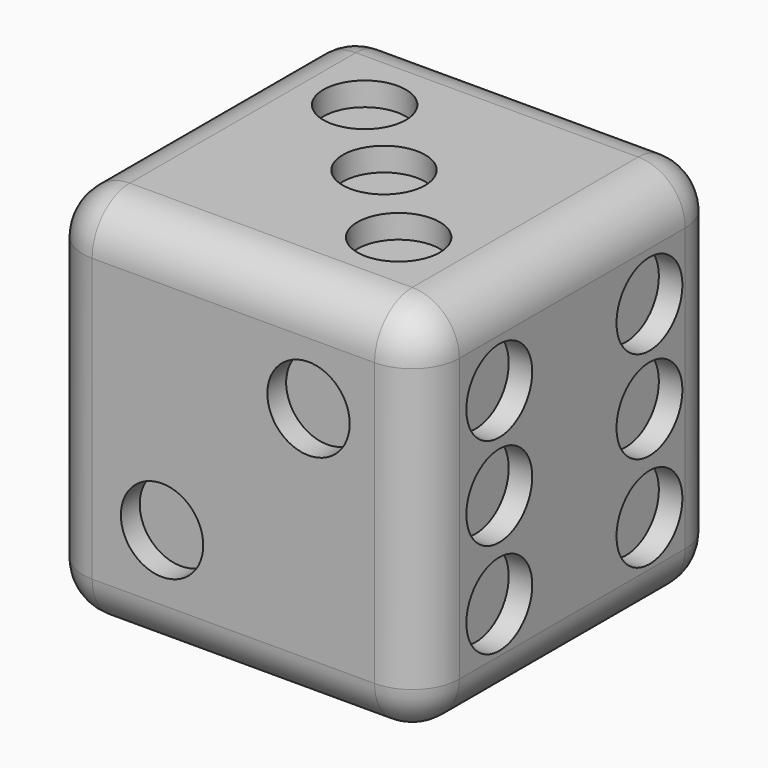
from build123d import *

# Parameters (mm, degrees)
F0_W      = 16
F0_H      = 16
F1_DEPTH  = 8
F2_R      = 2
F3_R      = 1.75
F4_DEPTH  = 1
F5_R      = 1.75
F6_DEPTH  = 1
F7_R      = 1.75
F8_DEPTH  = 1
F9_R      = 1.75
F10_DEPTH = 1
F11_R     = 1.75
F12_DEPTH = 1
F13_R     = 1.75
F14_DEPTH = 1


with BuildPart() as f1:
    # F0 (on Front) → F1 (new body, symmetric)
    with BuildSketch(Plane.XZ):
        Rectangle(F0_W, F0_H)
    extrude(amount=F1_DEPTH, both=True)

    # F2
    f2_edges = [f1.edges().sort_by_distance(p)[0] for p in [
        (0, -8, 8),
        (8, 0, 8),
        (8, -8, 0),
        (8, 8, 0),
        (8, 0, -8),
        (0, -8, -8),
        (0, 8, -8),
        (0, 8, 8),
        (-8, 8, 0),
        (-8, -8, 0),
        (-8, 0, -8),
        (-8, 0, 8),
    ]]
    fillet(f2_edges, radius=F2_R)

    # F3 (on face) → F4 (cut)
    with BuildSketch(Plane(origin=(-8, 0, 0), x_dir=(0, -1, 0), z_dir=(-1, 0, 0))):
        Circle(F3_R)
    extrude(amount=-F4_DEPTH, mode=Mode.SUBTRACT)

    # F5 (on face) → F6 (cut)
    with BuildSketch(Plane.XZ.offset(8)):
        with Locations((3.193169, 3.366647)):
            Circle(F5_R)
        with Locations((-3.031091, -3.203825)):
            Circle(F5_R)
    extrude(amount=-F6_DEPTH, mode=Mode.SUBTRACT)

    # F7 (on face) → F8 (cut)
    with BuildSketch(Plane.YZ.offset(8)):
        with Locations((-3.87646, 3.926625)):
            Circle(F7_R)
        with Locations((-3.87646, 0)):
            Circle(F7_R)
        with Locations((-3.87646, -4.054355)):
            Circle(F7_R)
        with Locations((4.099085, 3.926625)):
            Circle(F7_R)
        with Locations((4.099085, 0)):
            Circle(F7_R)
        with Locations((4.099085, -4.054355)):
            Circle(F7_R)
    extrude(amount=-F8_DEPTH, mode=Mode.SUBTRACT)

    # F9 (on face) → F10 (cut)
    with BuildSketch(Plane(origin=(0, 8, 0), x_dir=(-1, 0, 0), z_dir=(0, 1, 0))):
        Circle(F9_R)
        with Locations((3.661382, 4.083229)):
            Circle(F9_R)
        with Locations((-3.603264, 4.083229)):
            Circle(F9_R)
        with Locations((-3.603264, -3.550806)):
            Circle(F9_R)
        with Locations((3.661382, -3.550806)):
            Circle(F9_R)
    extrude(amount=-F10_DEPTH, mode=Mode.SUBTRACT)

    # F11 (on face) → F12 (cut)
    with BuildSketch(Plane.XY.offset(8)):
        Circle(F11_R)
        with Locations((3.39505, -3.466212)):
            Circle(F11_R)
        with Locations((-3.431327, 3.261353)):
            Circle(F11_R)
    extrude(amount=-F12_DEPTH, mode=Mode.SUBTRACT)

    # F13 (on face) → F14 (cut)
    with BuildSketch(Plane(origin=(0, 0, -8), x_dir=(1, 0, 0), z_dir=(0, 0, -1))):
        with Locations((-3.193001, 2.974751)):
            Circle(F13_R)
        with Locations((3.554628, 2.974751)):
            Circle(F13_R)
        with Locations((3.554628, -2.995252)):
            Circle(F13_R)
        with Locations((-3.193001, -2.995252)):
            Circle(F13_R)
    extrude(amount=-F14_DEPTH, mode=Mode.SUBTRACT)


solid = f1.part
